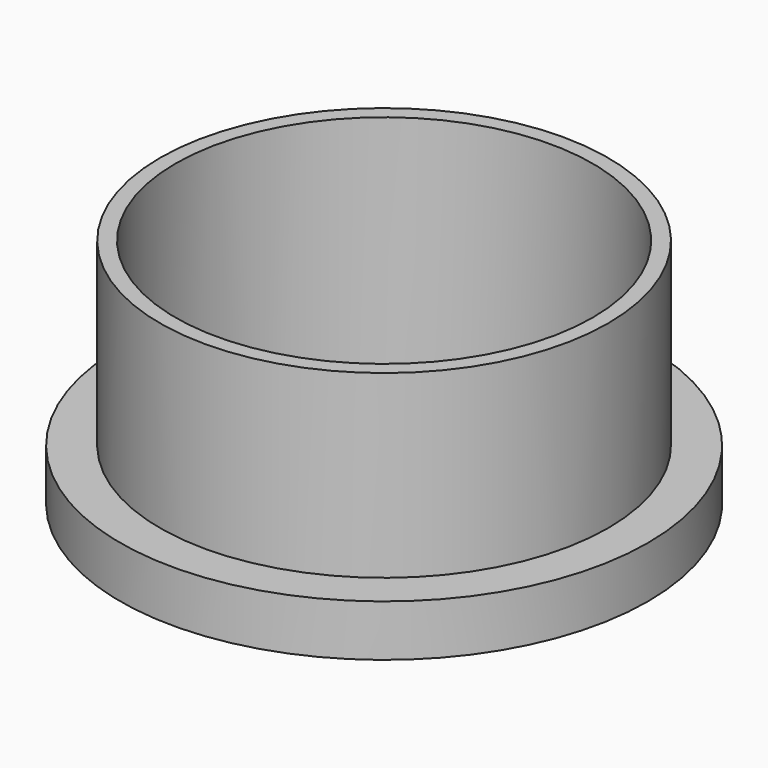
from build123d import *

# Parameters (mm, degrees)
SKETCH_R      = 20.5
SKETCH_R_2    = 16.2
PAD_DEPTH     = 18
SKETCH001_R   = 20.5
SKETCH001_R_2 = 17.4
POCKET_DEPTH  = 14


with BuildPart() as part:
    # Sketch → Pad (new body)
    with BuildSketch(Plane.XY):
        Circle(SKETCH_R)
        Circle(SKETCH_R_2, mode=Mode.SUBTRACT)
    extrude(amount=PAD_DEPTH)

    # Sketch001 → Pocket (cut)
    with BuildSketch(Plane.XY.offset(18)):
        Circle(SKETCH001_R)
        Circle(SKETCH001_R_2, mode=Mode.SUBTRACT)
    extrude(amount=-POCKET_DEPTH, mode=Mode.SUBTRACT)


solid = part.part
